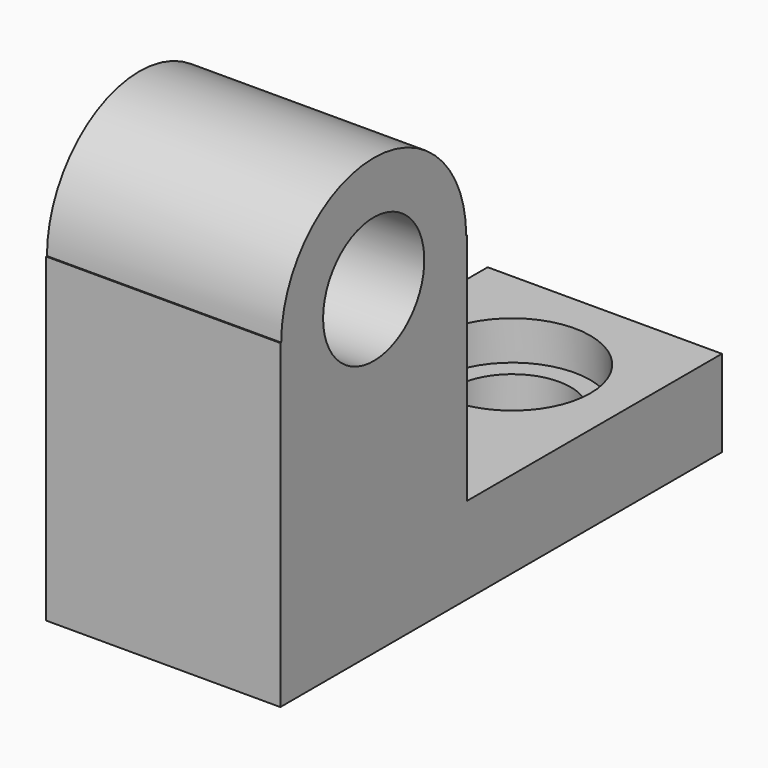
from build123d import *

# Parameters (mm, degrees)
F1_DEPTH       = 76.2
F3_D           = 38.1
F3_DEPTH       = 38.1
F3_CBORE_D     = 50.8
F3_CBORE_DEPTH = 12.7
F3_TIP         = 11.4463947925
F4_D           = 41.148
F4_DEPTH       = 76.2
F4_CBORE_D     = 50.8
F4_CBORE_DEPTH = 12.7
F4_TIP         = 12.3621063759


with BuildPart() as f1:
    # F0 (on Right) → F1 (new body)
    with BuildSketch(Plane.YZ):
        with BuildLine():
            ThreePointArc((-0.3445927945, 76.0475993156), (-37.9475988448, 113.6506053659), (-75.5506048951, 76.0475993156))
            Line((-75.5506048951, 76.0475993156), (-0.3445927945, 76.0475993156))
        make_face()
        Polygon((-75.8951976895, 76.0475993156), (-75.8951976895, 0), (0, 0), (0, 76.0475993156), (-0.3445927945, 76.0475993156), (-75.5506048951, 76.0475993156), align=None)
        Polygon((0, 0), (-75.8951976895, 0), (-75.8951976895, -28.1940009445), (103.6320030689, -28.1940009445), (103.6320030689, 0), align=None)
    extrude(amount=F1_DEPTH)

    # F3
    with Locations(Plane.XY):
        with Locations((38.2905006409, 65.7788068056)):
            CounterBoreHole(F3_D / 2, F3_CBORE_D / 2, F3_CBORE_DEPTH, depth=F3_DEPTH)
            with Locations((0, 0, -(F3_DEPTH + F3_TIP / 2))):  # 118° drill point
                Cone(0, F3_D / 2, F3_TIP, mode=Mode.SUBTRACT)

    # F4
    with Locations(Plane(origin=(0, 0, 0), x_dir=(0, 1, 0), z_dir=(-1, 0, 0))):
        with Locations((-37.9475988448, -76.0475993156)):
            CounterBoreHole(F4_D / 2, F4_CBORE_D / 2, F4_CBORE_DEPTH, depth=F4_DEPTH)
            with Locations((0, 0, -(F4_DEPTH + F4_TIP / 2))):  # 118° drill point
                Cone(0, F4_D / 2, F4_TIP, mode=Mode.SUBTRACT)


solid = f1.part
